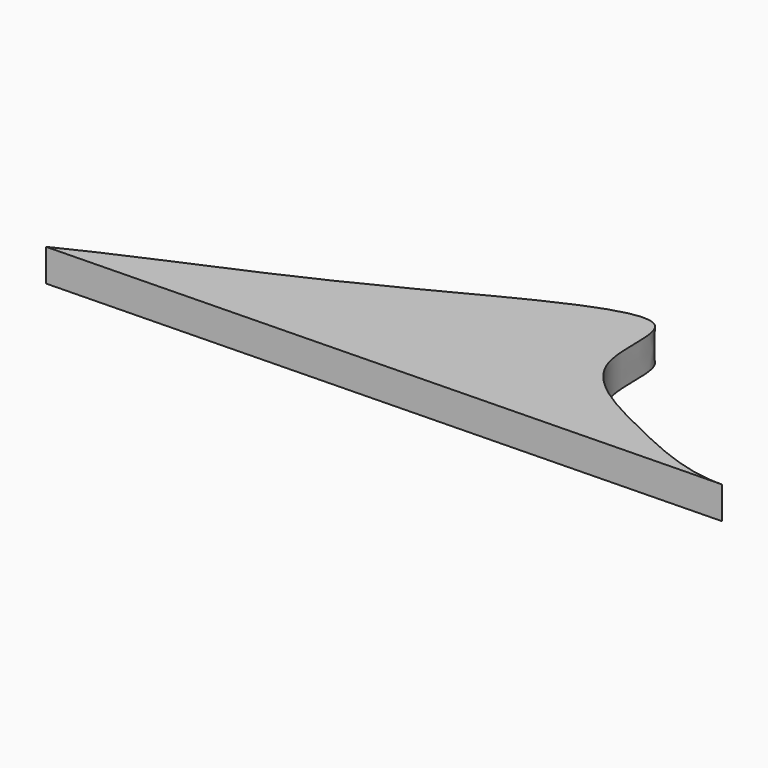
from build123d import *

# Parameters (mm, degrees)
F1_DEPTH = 3.175


with BuildPart() as f1:
    # F0 (on Top) → F1 (new body)
    with BuildSketch(Plane.XY):
        with BuildLine():
            add(Edge.make_bspline(
                [(-38.8385541737, 12.1336234733), (-34.5343647417, 14.3158607377), (-22.6236591248, 19.2098764077), (-11.1739277269, 24.8960863863), (8.45716265, 35.3890035584), (4.7499039076, 22.3431142566), (15.4903298879, 16.9685584203), (22.590915287, 13.6265916463), (26.2013357133, 13.6970821768)],
                knots=[0, 0, 0, 0, 0.1911918461, 0.3758243169, 0.5619831063, 0.6880299753, 0.8419865, 1, 1, 1, 1], degree=3))
            Line((-38.8385541737, 12.1336234733), (26.2013357133, 13.6970821768))
        make_face()
    extrude(amount=F1_DEPTH)


solid = f1.part
